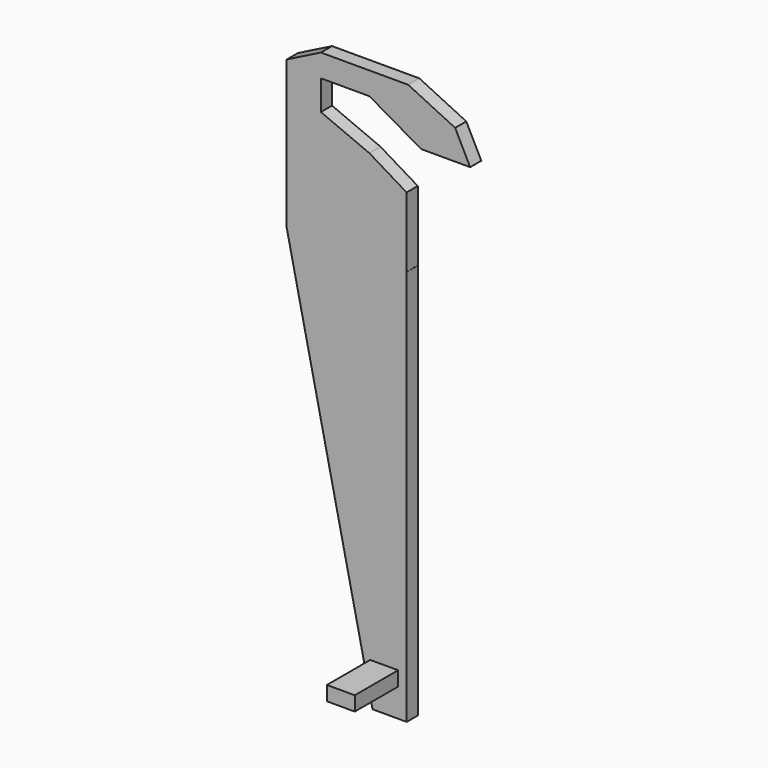
from build123d import *

# Parameters (mm, degrees)
F1_DEPTH      = 2.92
F2_W          = 11.3588606473
F2_H          = 3.0194446445
F3_DEPTH      = 4.064
F3_DEPTH_BACK = 1.778


with BuildPart() as f1:
    # F0 (on Front) → F1 (new body)
    with BuildSketch(Plane.XZ):
        Polygon((-21.565, 41.5), (-3.585, -41.5), (-3.585, 41.5), align=None)
        Polygon((-21.565, 41.5), (-3.585, 41.5), (3.5597670358, 41.5), (3.5597670358, 56.15), (-21.565, 56.15), align=None)
        Polygon((-21.565, 72.5), (-21.565, 56.15), (3.5597670358, 56.15), (-4.2378189974, 60.8550645411), (-14.3992334591, 65.134861098), (-14.3992334591, 71.3648572564), (-4.2378189974, 71.3648572564), (6.6109970212, 65.134861098), (16.8742514001, 65.134861098), (13.7305296957, 71.3648572564), (3.8987922017, 76.1159212991), (-14.3992334591, 76.1159212991), align=None)
        Polygon((-3.585, -41.5), (3.585, -41.5), (3.585, 41.5), (3.5597670358, 41.5), (-3.585, 41.5), align=None)
    extrude(amount=F1_DEPTH)

    # F2 (on Right) → F3 (join, two sides)
    with BuildSketch(Plane.YZ) as f3_sk:
        with Locations((-8.5862084525, -34.0649671853)):
            Rectangle(F2_W, F2_H)
    extrude(amount=-F3_DEPTH)
    extrude(f3_sk.sketch, amount=F3_DEPTH_BACK)


solid = f1.part
